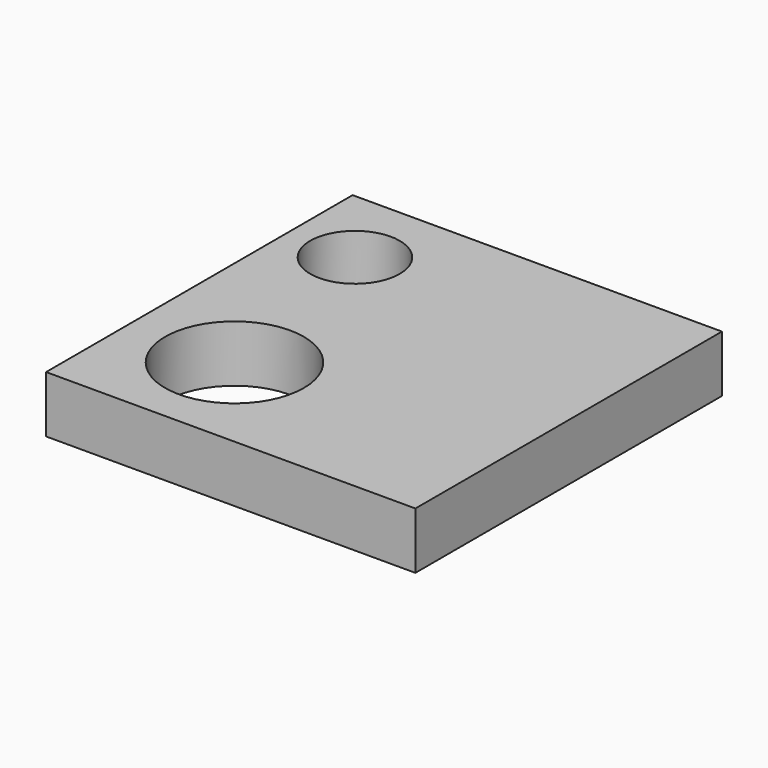
from build123d import *

# Parameters (mm, degrees)
F0_W     = 32.56618
F0_H     = 33.785231
F0_R     = 6.115534
F0_R_2   = 3.948269
F0_R_3   = 3.382135
F1_DEPTH = 5


with BuildPart() as f1:
    # F0 (on Top) → F1 (new body)
    with BuildSketch(Plane.XY):
        with Locations((28.758397, -21.543816)):
            Rectangle(F0_W, F0_H)
        with Locations((21.705294, -29.206751)):
            Circle(F0_R, mode=Mode.SUBTRACT)
        with Locations((18.39643, -11.791375)):
            Circle(F0_R_2, mode=Mode.SUBTRACT)
        with Locations((33.649027, -21.098301)):
            Circle(F0_R_3, mode=Mode.SUBTRACT)
        with Locations((33.649027, -21.098301)):
            Circle(F0_R_3)
    extrude(amount=F1_DEPTH)


solid = f1.part
